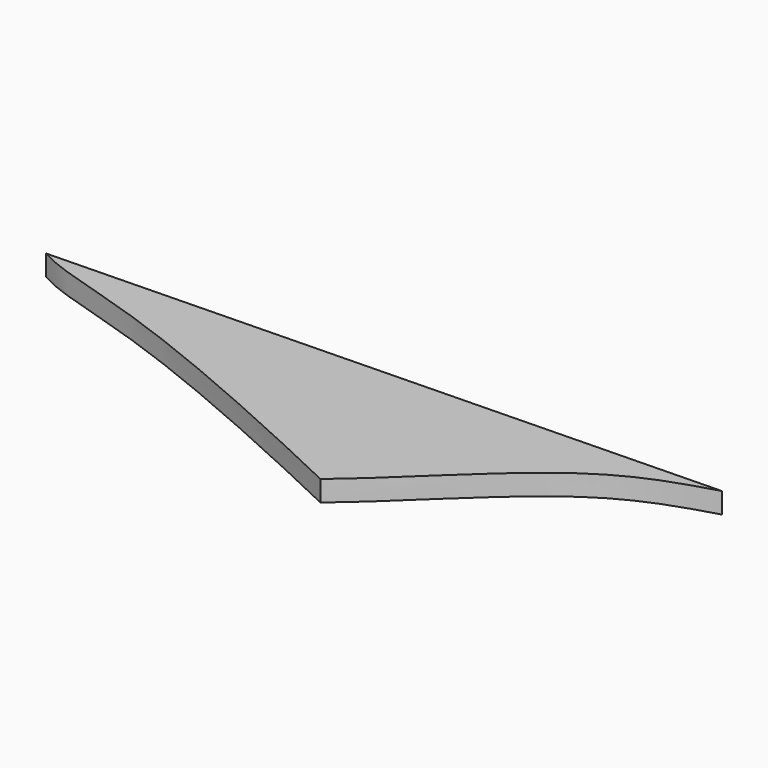
from build123d import *

# Parameters (mm, degrees)
F1_DEPTH = 3.175


with BuildPart() as f1:
    # F0 (on Top) → F1 (new body)
    with BuildSketch(Plane.XY):
        with BuildLine():
            Line((32.8097513458, 9.2495579237), (-68.7608663703, 6.8062780048))
            add(Edge.make_bspline(
                [(-68.7608663703, 6.8062780048), (-67.6842256856, 6.2468064304), (-64.4779066416, 4.580656907), (-48.1766996556, 0.3057971498), (-21.737320925, -11.1608374501), (-11.1515076571, -16.1811209824), (-6.6317568513, -18.3245964024)],
                knots=[0, 0, 0, 0, 0.1312665643, 0.3909219585, 0.7399461997, 1, 1, 1, 1], degree=3))
            add(Edge.make_bspline(
                [(-6.6317568513, -18.3245964024), (-4.7179195486, -16.6813098714), (0.306694663, -12.3670032969), (17.2158634114, 4.6520728347), (27.9398010415, 7.8137694916), (32.8097513458, 9.2495579237)],
                knots=[0, 0, 0, 0, 0.2514078853, 0.6600496457, 1, 1, 1, 1], degree=3))
        make_face()
    extrude(amount=F1_DEPTH)


solid = f1.part
